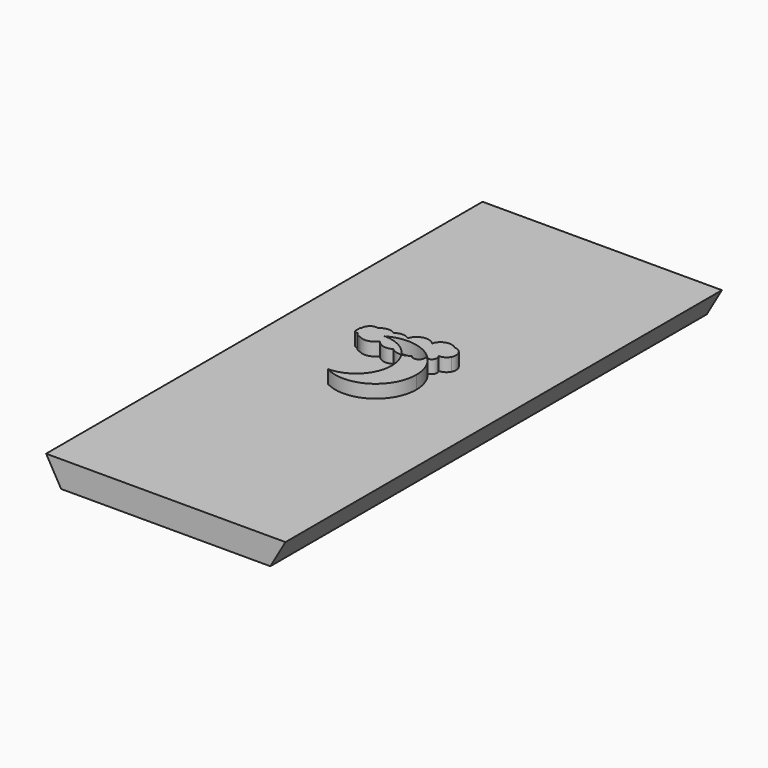
from build123d import *

# Parameters (mm, degrees)
F1_DEPTH  = 125
F2_R      = 1.85
F3_DEPTH  = 4
F5_DEPTH  = 3
F7_R      = 6
F8_DEPTH  = 25
F10_R     = 6
F11_DEPTH = 25


with BuildPart() as f1:
    # F0 (on Front) → F1 (new body)
    with BuildSketch(Plane.XZ):
        Polygon((27.4241377865, 47.5), (-27.4241377865, 47.5), (-23.9600361714, 41.5), (23.9600361714, 41.5), align=None)
    extrude(amount=F1_DEPTH)

    # F2 (on face) → F3 (cut)
    with BuildSketch(Plane(origin=(0, 0, 41.5), x_dir=(1, 0, 0), z_dir=(0, 0, -1))):
        with BuildLine():
            ThreePointArc((-13.8300180857, 120), (-11.9800180857, 118.15), (-10.1300180857, 120))
            Line((-10.1300180857, 120), (-13.8300180857, 120))
        make_face()
        with BuildLine():
            Line((-13.8300180857, 120), (-10.1300180857, 120))
            ThreePointArc((-10.1300180857, 120), (-11.9800180857, 121.85), (-13.8300180857, 120))
        make_face()
        with Locations((11.9800180857, 120)):
            Circle(F2_R)
        with BuildLine():
            ThreePointArc((-13.8300180857, 23), (-11.9800180857, 21.15), (-10.1300180857, 23))
            Line((-10.1300180857, 23), (-13.8300180857, 23))
        make_face()
        with BuildLine():
            Line((-13.8300180857, 23), (-10.1300180857, 23))
            ThreePointArc((-10.1300180857, 23), (-11.9800180857, 24.85), (-13.8300180857, 23))
        make_face()
        with Locations((11.9800180857, 23)):
            Circle(F2_R)
    extrude(amount=-F3_DEPTH, mode=Mode.SUBTRACT)

    # F4 (on face) → F5 (join)
    with BuildSketch(Plane.XY.offset(47.5)):
        with BuildLine():
            ThreePointArc((-4.9624431031, -72.4009279721), (4.252691201, -72.2658826822), (8.8217126606, -64.2620723161))
            Line((8.8217126606, -64.2620723161), (3.1603222234, -64.2620723161))
            ThreePointArc((3.1603222234, -64.2620723161), (0.7821935357, -70.0114263654), (-4.9624431031, -72.4009279721))
        make_face()
        with BuildLine():
            ThreePointArc((6.5204872228, -58.1396910508), (6.4966065006, -58.1411162683), (6.4727028262, -58.142082959))
            ThreePointArc((6.4727028262, -58.142082959), (6.1878056278, -58.118065532), (5.9158733115, -58.0297701993))
            ThreePointArc((5.9158733115, -58.0297701993), (5.1682662368, -59.4962219445), (3.5931775857, -59.0182127392))
            ThreePointArc((3.5931775857, -59.0182127392), (2.8253831829, -59.5446151282), (1.9358127946, -59.8189730046))
            ThreePointArc((1.9358127946, -59.8189730046), (1.892061339, -59.8251878066), (1.8482256331, -59.8307774863))
            ThreePointArc((1.8482256331, -59.8307774863), (2.8254071893, -61.9513380534), (3.1603222234, -64.2620723161))
            Line((3.1603222234, -64.2620723161), (8.8217126606, -64.2620723161))
            ThreePointArc((8.8217126606, -64.2620723161), (8.227406593, -60.991782158), (6.5204872228, -58.1396910508))
        make_face()
        with BuildLine():
            ThreePointArc((-4.9624431031, -56.1232166602), (1.0988983628, -55.1011074623), (6.4727028262, -58.0855325605))
            ThreePointArc((6.4727028262, -58.0855325605), (6.4966476292, -58.1125653923), (6.5204872228, -58.1396910508))
            ThreePointArc((6.5204872228, -58.1396910508), (7.5840164309, -57.3778876345), (7.3813630468, -56.0854595214))
            ThreePointArc((7.3813630468, -56.0854595214), (8.5743392283, -55.7885482621), (9.416500561, -54.8929407838))
            Line((9.416500561, -54.8929407838), (9.416500561, -54.2620723161))
            Line((9.416500561, -54.2620723161), (-7.6202011075, -54.2620723161))
            ThreePointArc((-7.6202011075, -54.2620723161), (-7.6869328379, -54.3259904491), (-7.7511294791, -54.3924542951))
            ThreePointArc((-7.7511294791, -54.3924542951), (-9.4471027568, -54.7050419938), (-10.1823136256, -56.265010393))
            ThreePointArc((-10.1823136256, -56.265010393), (-10.2763805171, -56.3286177025), (-10.3628188483, -56.4022579415))
            Line((-10.3628188483, -56.4022579415), (-10.3628188483, -57.883753756))
            ThreePointArc((-10.3628188483, -57.883753756), (-9.9403916974, -58.1260840744), (-9.453785384, -58.1456538666))
            ThreePointArc((-9.453785384, -58.1456538666), (-9.0506628028, -58.7755881179), (-8.3467504152, -59.0282387207))
            ThreePointArc((-8.3467504152, -59.0282387207), (-6.1696577071, -59.4019534475), (-4.3527629056, -58.1456538666))
            ThreePointArc((-4.3527629056, -58.1456538666), (-2.6797742551, -59.371466197), (-0.6360720047, -59.0182127392))
            ThreePointArc((-0.6360720047, -59.0182127392), (0.5161185349, -59.6995293687), (1.8482256331, -59.8307774863))
            ThreePointArc((1.8482256331, -59.8307774863), (1.8330187957, -59.8074376583), (1.817732163, -59.7841500149))
            ThreePointArc((1.817732163, -59.7841500149), (-1.111668826, -57.1004757298), (-4.9624431031, -56.1232166602))
        make_face()
        with BuildLine():
            Line((9.416500561, -54.2620723161), (9.416500561, -54.8929407838))
            ThreePointArc((9.416500561, -54.8929407838), (9.352384363, -52.8082417308), (7.5650540132, -51.7332853367))
            ThreePointArc((7.5650540132, -51.7332853367), (5.1359618237, -51.2192554799), (3.4312824519, -53.0244656611))
            ThreePointArc((3.4312824519, -53.0244656611), (0.771209683, -52.2310388329), (-1.2286664372, -54.1561385113))
            ThreePointArc((-1.2286664372, -54.1561385113), (-2.8757088862, -53.5841315132), (-4.5227513352, -54.1561385113))
            ThreePointArc((-4.5227513352, -54.1561385113), (-6.0911184928, -53.634775536), (-7.6202011075, -54.2620723161))
            Line((-7.6202011075, -54.2620723161), (9.416500561, -54.2620723161))
        make_face()
        with BuildLine():
            Line((1.9358127946, -59.8189730046), (1.817732163, -59.7841500149))
            ThreePointArc((1.817732163, -59.7841500149), (1.8330187957, -59.8074376583), (1.8482256331, -59.8307774863))
            ThreePointArc((1.8482256331, -59.8307774863), (1.892061339, -59.8251878066), (1.9358127946, -59.8189730046))
        make_face()
        with BuildLine():
            Line((6.4727028262, -58.0855325605), (6.4727028262, -58.142082959))
            ThreePointArc((6.4727028262, -58.142082959), (6.4966065006, -58.1411162683), (6.5204872228, -58.1396910508))
            ThreePointArc((6.5204872228, -58.1396910508), (6.4966476292, -58.1125653923), (6.4727028262, -58.0855325605))
        make_face()
    extrude(amount=F5_DEPTH)

    # F7 (on face) → F8 (cut)
    with BuildSketch(Plane(origin=(-23.9600361714, 0, 41.5), x_dir=(0.8660254038, 0, 0.5), z_dir=(0.5, 0, -0.8660254038))):
        with Locations((0, 62.5)):
            Circle(F7_R)
    extrude(amount=F8_DEPTH, mode=Mode.SUBTRACT)

    # F10 (on face) → F11 (cut)
    with BuildSketch(Plane(origin=(23.9600361714, 0, 41.5), x_dir=(0.8660254038, 0, -0.5), z_dir=(0.5, 0, 0.8660254038))):
        with Locations((0, -62.5)):
            Circle(F10_R)
    extrude(amount=-F11_DEPTH, mode=Mode.SUBTRACT)


solid = f1.part
